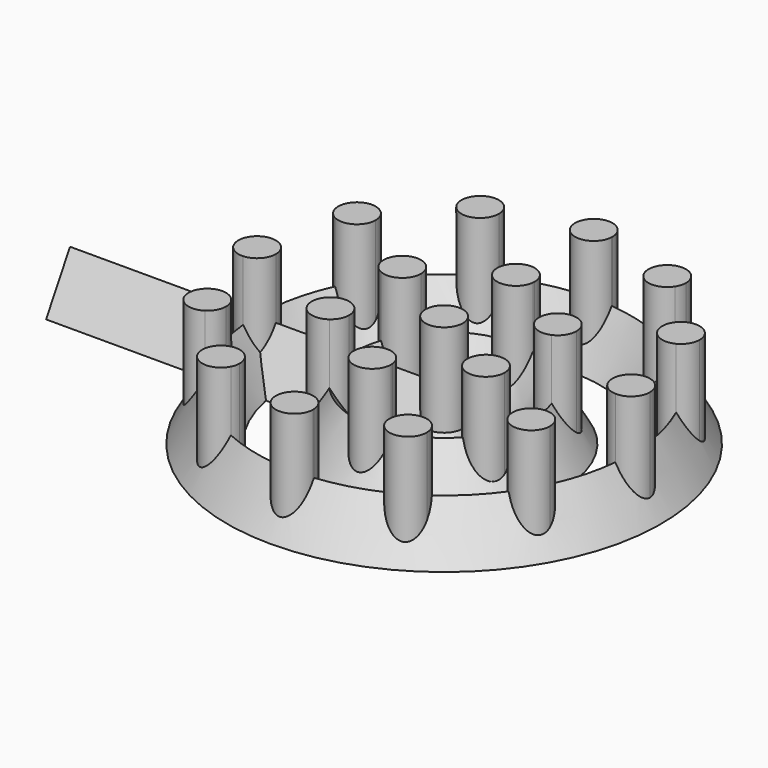
from build123d import *

# Parameters (mm, degrees)
F0_R     = 2.5
F3_DEPTH = 15


with BuildPart() as f2:
    # F1 (on Right) → F2 (revolve)
    with BuildSketch(Plane.YZ):
        Polygon((17, 0), (13, 6.928203), (9, 0), align=None)
        Polygon((0, 6.928203), (-4, 0), (4, 0), align=None)
        Polygon((25, 0), (25, 6.928203), (21, 0), align=None)
    revolve(axis=Axis((0, 25, 6.844345), (0, 0, 1)))

    # F0 (on Top) → F3 (join)
    with BuildSketch(Plane.XY):
        with BuildLine():
            ThreePointArc((-14.599855, 4.706055), (-12.5, 3.349365), (-10.275145, 2.209182))
            ThreePointArc((-10.275145, 2.209182), (-10.069759, 2.762909), (-10, 3.349365))
            ThreePointArc((-10, 3.349365), (-11.792765, 5.747243), (-14.599855, 4.706055))
        make_face()
        with BuildLine():
            ThreePointArc((-14.599855, 4.706055), (-13.75, 1.184301), (-10.275145, 2.209182))
            ThreePointArc((-10.275145, 2.209182), (-12.5, 3.349365), (-14.599855, 4.706055))
        make_face()
        with BuildLine():
            ThreePointArc((-22.790818, 14.724855), (-21.650635, 12.5), (-20.293945, 10.400145))
            ThreePointArc((-20.293945, 10.400145), (-19.454989, 11.304534), (-19.150635, 12.5))
            ThreePointArc((-19.150635, 12.5), (-20.346883, 14.633127), (-22.790818, 14.724855))
        make_face()
        with BuildLine():
            ThreePointArc((-22.790818, 14.724855), (-23.815699, 11.25), (-20.293945, 10.400145))
            ThreePointArc((-20.293945, 10.400145), (-21.650635, 12.5), (-22.790818, 14.724855))
        make_face()
        with BuildLine():
            ThreePointArc((-24.875, 27.496873), (-25, 25), (-24.875, 22.503127))
            ThreePointArc((-24.875, 22.503127), (-23.188578, 23.276994), (-22.5, 25))
            ThreePointArc((-22.5, 25), (-23.188578, 26.723006), (-24.875, 27.496873))
        make_face()
        with BuildLine():
            ThreePointArc((-24.875, 27.496873), (-27.5, 25), (-24.875, 22.503127))
            ThreePointArc((-24.875, 22.503127), (-25, 25), (-24.875, 27.496873))
        make_face()
        with BuildLine():
            ThreePointArc((-20.293945, 39.599855), (-23.815699, 38.75), (-22.790818, 35.275145))
            ThreePointArc((-22.790818, 35.275145), (-21.650635, 37.5), (-20.293945, 39.599855))
        make_face()
        with BuildLine():
            ThreePointArc((-20.293945, 39.599855), (-21.650635, 37.5), (-22.790818, 35.275145))
            ThreePointArc((-22.790818, 35.275145), (-20.346883, 35.366873), (-19.150635, 37.5))
            ThreePointArc((-19.150635, 37.5), (-19.454989, 38.695466), (-20.293945, 39.599855))
        make_face()
        with BuildLine():
            ThreePointArc((-10.275145, 47.790818), (-12.5, 46.650635), (-14.599855, 45.293945))
            ThreePointArc((-14.599855, 45.293945), (-11.792765, 44.252757), (-10, 46.650635))
            ThreePointArc((-10, 46.650635), (-10.069759, 47.237091), (-10.275145, 47.790818))
        make_face()
        with BuildLine():
            ThreePointArc((-10.275145, 47.790818), (-13.75, 48.815699), (-14.599855, 45.293945))
            ThreePointArc((-14.599855, 45.293945), (-12.5, 46.650635), (-10.275145, 47.790818))
        make_face()
        with BuildLine():
            ThreePointArc((-2.496873, 49.875), (0, 50), (2.496873, 49.875))
            ThreePointArc((2.496873, 49.875), (2.499218, 49.93748), (2.5, 50))
            ThreePointArc((2.5, 50), (-0.06252, 52.499218), (-2.496873, 49.875))
        make_face()
        with BuildLine():
            ThreePointArc((10.275145, 47.790818), (12.5, 46.650635), (14.599855, 45.293945))
            ThreePointArc((14.599855, 45.293945), (14.897878, 45.943401), (15, 46.650635))
            ThreePointArc((15, 46.650635), (13.086456, 49.080876), (10.275145, 47.790818))
        make_face()
        with BuildLine():
            ThreePointArc((20.293945, 39.599855), (19.485572, 36.25), (22.790818, 35.275145))
            ThreePointArc((22.790818, 35.275145), (21.650635, 37.5), (20.293945, 39.599855))
        make_face()
        with BuildLine():
            ThreePointArc((-2.496873, 0.125), (0, 0), (2.496873, 0.125))
            ThreePointArc((2.496873, 0.125), (0, 2.5), (-2.496873, 0.125))
        make_face()
        with BuildLine():
            ThreePointArc((14.599855, 4.706055), (12.5, 3.349365), (10.275145, 2.209182))
            ThreePointArc((10.275145, 2.209182), (13.086456, 0.919124), (15, 3.349365))
            ThreePointArc((15, 3.349365), (14.897878, 4.056599), (14.599855, 4.706055))
        make_face()
        with BuildLine():
            ThreePointArc((14.599855, 4.706055), (11.25, 5.514428), (10.275145, 2.209182))
            ThreePointArc((10.275145, 2.209182), (12.5, 3.349365), (14.599855, 4.706055))
        make_face()
        with BuildLine():
            ThreePointArc((22.790818, 14.724855), (21.650635, 12.5), (20.293945, 10.400145))
            ThreePointArc((20.293945, 10.400145), (22.846101, 10.304354), (24.150635, 12.5))
            ThreePointArc((24.150635, 12.5), (23.783762, 13.803753), (22.790818, 14.724855))
        make_face()
        with BuildLine():
            ThreePointArc((22.790818, 14.724855), (19.485572, 13.75), (20.293945, 10.400145))
            ThreePointArc((20.293945, 10.400145), (21.650635, 12.5), (22.790818, 14.724855))
        make_face()
        with BuildLine():
            ThreePointArc((24.875, 27.496873), (22.5, 25), (24.875, 22.503127))
            ThreePointArc((24.875, 22.503127), (24.96873, 23.75), (25, 25))
            ThreePointArc((25, 25), (24.96873, 26.25), (24.875, 27.496873))
        make_face()
        with BuildLine():
            ThreePointArc((25, 25), (24.96873, 23.75), (24.875, 22.503127))
            ThreePointArc((24.875, 22.503127), (26.723006, 23.188578), (27.5, 25))
            ThreePointArc((27.5, 25), (26.723006, 26.811422), (24.875, 27.496873))
            ThreePointArc((24.875, 27.496873), (24.96873, 26.25), (25, 25))
        make_face()
        with BuildLine():
            ThreePointArc((11.409977, 21.283494), (10.392305, 19), (8.923578, 16.976923))
            ThreePointArc((8.923578, 16.976923), (11.527686, 16.77269), (12.892305, 19))
            ThreePointArc((12.892305, 19), (12.489229, 20.361216), (11.409977, 21.283494))
        make_face()
        with BuildLine():
            ThreePointArc((11.409977, 21.283494), (8.227241, 20.25), (8.923578, 16.976923))
            ThreePointArc((8.923578, 16.976923), (10.392305, 19), (11.409977, 21.283494))
        make_face()
        with BuildLine():
            ThreePointArc((8.923578, 33.023077), (8.227241, 29.75), (11.409977, 28.716506))
            ThreePointArc((11.409977, 28.716506), (10.392305, 31), (8.923578, 33.023077))
        make_face()
        with BuildLine():
            ThreePointArc((2.4864, 36.739583), (0, 37), (-2.4864, 36.739583))
            ThreePointArc((-2.4864, 36.739583), (0, 34.5), (2.4864, 36.739583))
        make_face()
        with BuildLine():
            ThreePointArc((2.5, 37), (-0.130386, 39.496598), (-2.4864, 36.739583))
            ThreePointArc((-2.4864, 36.739583), (0, 37), (2.4864, 36.739583))
            ThreePointArc((2.4864, 36.739583), (2.496598, 36.869614), (2.5, 37))
        make_face()
        with Locations((0, 25)):
            Circle(F0_R)
        with BuildLine():
            ThreePointArc((8.923578, 33.023077), (10.392305, 31), (11.409977, 28.716506))
            ThreePointArc((11.409977, 28.716506), (12.489229, 29.638784), (12.892305, 31))
            ThreePointArc((12.892305, 31), (11.527686, 33.22731), (8.923578, 33.023077))
        make_face()
        with BuildLine():
            ThreePointArc((-2.4864, 13.260417), (-0.130386, 10.503402), (2.5, 13))
            ThreePointArc((2.5, 13), (2.496598, 13.130386), (2.4864, 13.260417))
            ThreePointArc((2.4864, 13.260417), (0, 13), (-2.4864, 13.260417))
        make_face()
        with BuildLine():
            ThreePointArc((-11.409977, 21.283494), (-10.392305, 19), (-8.923578, 16.976923))
            ThreePointArc((-8.923578, 16.976923), (-8.164995, 17.864619), (-7.892305, 19))
            ThreePointArc((-7.892305, 19), (-9.031089, 21.096924), (-11.409977, 21.283494))
        make_face()
        with BuildLine():
            ThreePointArc((-11.409977, 21.283494), (-12.557368, 17.75), (-8.923578, 16.976923))
            ThreePointArc((-8.923578, 16.976923), (-10.392305, 19), (-11.409977, 21.283494))
        make_face()
        with BuildLine():
            ThreePointArc((-2.4864, 13.260417), (0, 13), (2.4864, 13.260417))
            ThreePointArc((2.4864, 13.260417), (0, 15.5), (-2.4864, 13.260417))
        make_face()
        with BuildLine():
            ThreePointArc((-8.923578, 33.023077), (-12.557368, 32.25), (-11.409977, 28.716506))
            ThreePointArc((-11.409977, 28.716506), (-10.392305, 31), (-8.923578, 33.023077))
        make_face()
        with BuildLine():
            ThreePointArc((-8.923578, 33.023077), (-10.392305, 31), (-11.409977, 28.716506))
            ThreePointArc((-11.409977, 28.716506), (-9.031089, 28.903076), (-7.892305, 31))
            ThreePointArc((-7.892305, 31), (-8.164995, 32.135381), (-8.923578, 33.023077))
        make_face()
        with BuildLine():
            ThreePointArc((-2.496873, 0.125), (-0.06252, -2.499218), (2.5, 0))
            ThreePointArc((2.5, 0), (2.499218, 0.06252), (2.496873, 0.125))
            ThreePointArc((2.496873, 0.125), (0, 0), (-2.496873, 0.125))
        make_face()
        with BuildLine():
            ThreePointArc((-2.496873, 49.875), (0, 47.5), (2.496873, 49.875))
            ThreePointArc((2.496873, 49.875), (0, 50), (-2.496873, 49.875))
        make_face()
        with BuildLine():
            ThreePointArc((20.293945, 39.599855), (21.650635, 37.5), (22.790818, 35.275145))
            ThreePointArc((22.790818, 35.275145), (23.783762, 36.196247), (24.150635, 37.5))
            ThreePointArc((24.150635, 37.5), (22.846101, 39.695646), (20.293945, 39.599855))
        make_face()
        with BuildLine():
            ThreePointArc((10.275145, 47.790818), (11.25, 44.485572), (14.599855, 45.293945))
            ThreePointArc((14.599855, 45.293945), (12.5, 46.650635), (10.275145, 47.790818))
        make_face()
    extrude(amount=F3_DEPTH)


with BuildPart() as f5:
    # F5: sweep along a path in F4
    with BuildLine(Plane.XZ) as f5_path:
        Line((0, 0), (-50, 0))
    # F1 (on Right) → F5 (sweep)
    with BuildSketch(Plane.YZ):
        Polygon((29, 0), (25, 6.928203), (25, 0), align=None)
        Polygon((25, 0), (25, 6.928203), (21, 0), align=None)
    sweep(path=f5_path.line)


solid = Compound([f2.part, f5.part])
